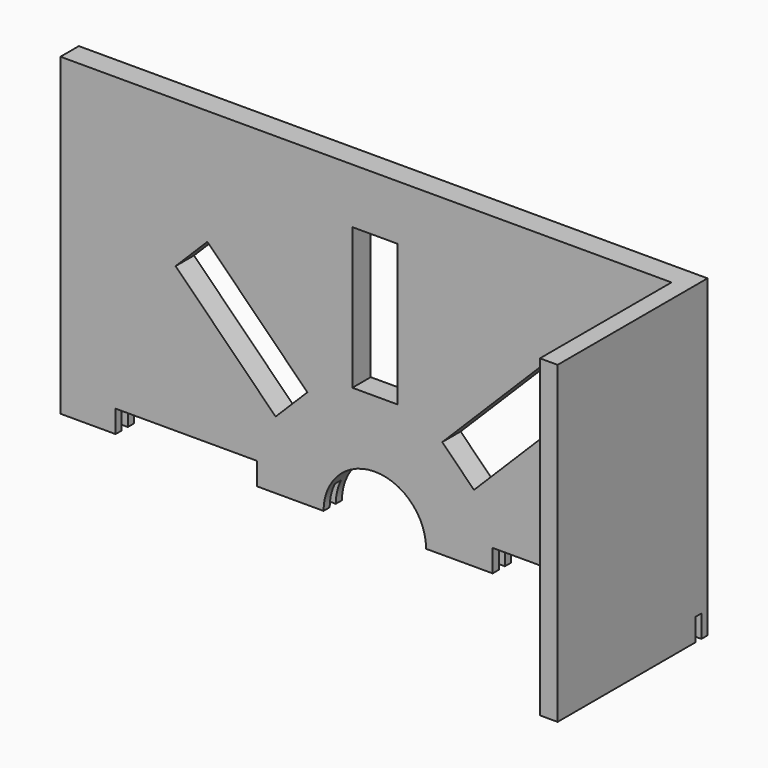
from build123d import *

# Parameters (mm, degrees)
F1_DEPTH = 82.55
F2_W     = 127
F2_H     = 2258.06
F3_DEPTH = 1181.1
F4_W     = 55.033317
F4_H     = 161.29
F5_DEPTH = 4516.12


with BuildPart() as f1:
    # F0 (on Front) → F1 (new body, symmetric)
    with BuildSketch(Plane.XZ):
        with BuildLine():
            Line((2258.06, -1354.328), (2258.06, 903.732))
            Line((2258.06, 903.732), (-2258.06, 903.732))
            Line((-2258.06, 903.732), (-2258.06, -1354.328))
            Line((-2258.06, -1354.328), (-1935.48, -1354.328))
            ThreePointArc((-1935.48, -1354.328), (-1368.591033, 14.263033), (0, 581.152))
            ThreePointArc((0, 581.152), (1368.591033, 14.263033), (1935.48, -1354.328))
            Line((1935.48, -1354.328), (2258.06, -1354.328))
        make_face()
        with BuildLine():
            ThreePointArc((0, 581.152), (-1368.591033, 14.263033), (-1935.48, -1354.328))
            Line((-1935.48, -1354.328), (-1862.328, -1354.328))
            Line((-1862.328, -1354.328), (-1862.328, -1193.038))
            Line((-1862.328, -1193.038), (-846.328, -1193.038))
            Line((-846.328, -1193.038), (-846.328, -1354.328))
            Line((-846.328, -1354.328), (-368.3, -1354.328))
            ThreePointArc((-368.3, -1354.328), (-260.427428, -1093.900572), (0, -986.028))
            Line((0, -986.028), (0, -508))
            Line((0, -508), (-161.29, -508))
            Line((-161.29, -508), (-161.29, 508))
            Line((-161.29, 508), (0, 508))
            Line((0, 508), (0, 581.152))
        make_face()
        Polygon((-712.493521, -869.932985), (-1430.91401, -151.512495), (-1202.815505, 76.58601), (-484.395015, -641.834479), align=None, mode=Mode.SUBTRACT)
        with BuildLine():
            Line((1862.328, -1354.328), (1935.48, -1354.328))
            ThreePointArc((1935.48, -1354.328), (1368.591033, 14.263033), (0, 581.152))
            Line((0, 581.152), (0, 508))
            Line((0, 508), (161.29, 508))
            Line((161.29, 508), (161.29, -508))
            Line((161.29, -508), (0, -508))
            Line((0, -508), (0, -986.028))
            ThreePointArc((0, -986.028), (260.427428, -1093.900572), (368.3, -1354.328))
            Line((368.3, -1354.328), (846.328, -1354.328))
            Line((846.328, -1354.328), (846.328, -1193.038))
            Line((846.328, -1193.038), (1862.328, -1193.038))
            Line((1862.328, -1193.038), (1862.328, -1354.328))
        make_face()
        Polygon((484.395015, -641.834479), (1202.815505, 76.58601), (1430.91401, -151.512495), (712.493521, -869.932985), align=None, mode=Mode.SUBTRACT)
    extrude(amount=F1_DEPTH, both=True)

    # F2 (on face) → F3 (join)
    with BuildSketch(Plane.XZ.offset(82.55)):
        with Locations((2194.56, -225.298)):
            Rectangle(F2_W, F2_H)
    extrude(amount=F3_DEPTH)

    # F4 (on face) → F5 (cut)
    with BuildSketch(Plane(origin=(-2258.06, 0, 0), x_dir=(0, -1, 0), z_dir=(-1, 0, 0))):
        with Locations((-2.5e-05, -1273.683)):
            Rectangle(F4_W, F4_H)
    extrude(amount=-F5_DEPTH, mode=Mode.SUBTRACT)


solid = f1.part
